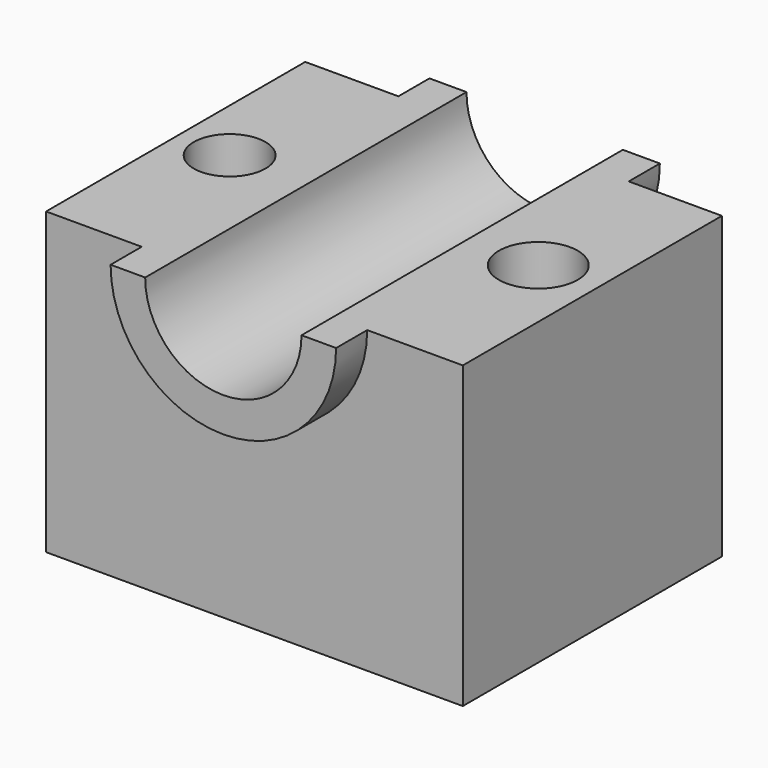
from build123d import *

# Parameters (mm, degrees)
F1_DEPTH = 63.5
F2_DEPTH = 7.62
F4_DEPTH = 7.62
F5_R     = 7.735602
F6_DEPTH = 73.152
F5_R_2   = 7.041534
F7_DEPTH = 76.2


with BuildPart() as f1:
    # F0 (on Front) → F1 (new body)
    with BuildSketch(Plane.XZ):
        with BuildLine():
            Line((-11.978863, 32.654684), (-30.244743, 32.654684))
            Line((-30.244743, 32.654684), (-30.244743, -26.147846))
            Line((-30.244743, -26.147846), (51.452216, -26.147846))
            Line((51.452216, -26.147846), (51.452216, 32.654684))
            Line((51.452216, 32.654684), (33.186335, 32.654684))
            ThreePointArc((33.186335, 32.654684), (10.603736, 10.072085), (-11.978863, 32.654684))
        make_face()
        with BuildLine():
            Line((-4.722234, 32.654684), (-11.978863, 32.654684))
            ThreePointArc((-11.978863, 32.654684), (10.603736, 10.072085), (33.186335, 32.654684))
            Line((33.186335, 32.654684), (25.929707, 32.654684))
            ThreePointArc((25.929707, 32.654684), (10.603736, 17.328714), (-4.722234, 32.654684))
        make_face()
    extrude(amount=F1_DEPTH)

    # F0 (on Front) → F2 (join)
    with BuildSketch(Plane.XZ):
        with BuildLine():
            Line((-4.722234, 32.654684), (-11.978863, 32.654684))
            ThreePointArc((-11.978863, 32.654684), (10.603736, 10.072085), (33.186335, 32.654684))
            Line((33.186335, 32.654684), (25.929707, 32.654684))
            ThreePointArc((25.929707, 32.654684), (10.603736, 17.328714), (-4.722234, 32.654684))
        make_face()
    extrude(amount=-F2_DEPTH)

    # F3 (on face) → F4 (join)
    with BuildSketch(Plane.XZ.offset(63.5)):
        with BuildLine():
            ThreePointArc((-11.5002, 32.654684), (10.603736, 10.550748), (32.707673, 32.654684))
            Line((32.707673, 32.654684), (25.929707, 32.654684))
            ThreePointArc((25.929707, 32.654684), (10.603736, 17.328714), (-4.722234, 32.654684))
            Line((-4.722234, 32.654684), (-11.5002, 32.654684))
        make_face()
    extrude(amount=F4_DEPTH)

    # F5 (on face) → F6 (cut)
    with BuildSketch(Plane.XY.offset(32.654684)):
        with Locations((39.744381, -30.362099)):
            Circle(F5_R)
    extrude(amount=-F6_DEPTH, mode=Mode.SUBTRACT)

    # F5 (on face) → F7 (cut)
    with BuildSketch(Plane.XY.offset(32.654684)):
        with Locations((-19.937346, -31.404577)):
            Circle(F5_R_2)
        with Locations((39.744381, -30.362099)):
            Circle(F5_R)
    extrude(amount=-F7_DEPTH, mode=Mode.SUBTRACT)


solid = f1.part
